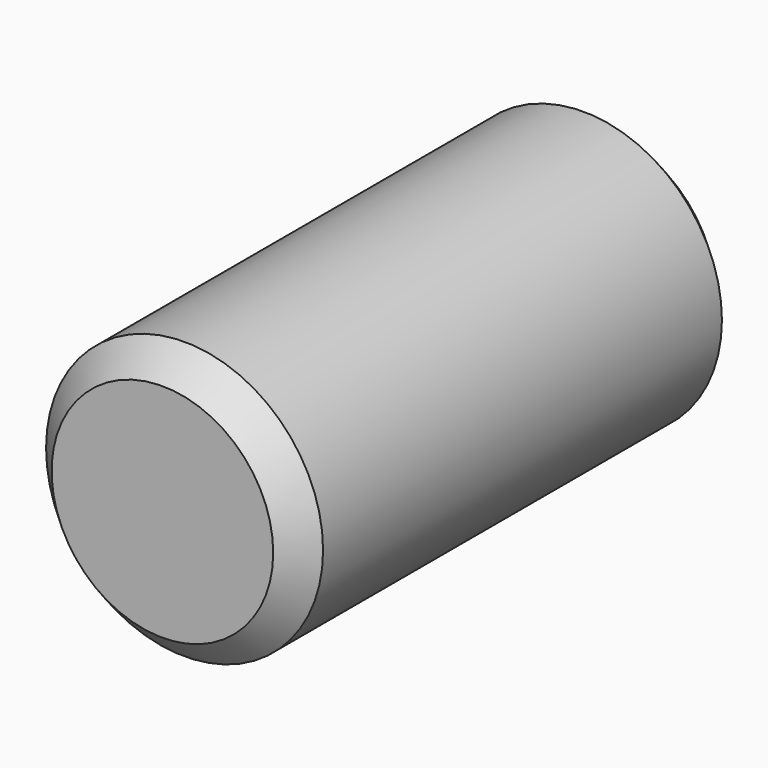
from build123d import *

# Parameters (mm, degrees)
F0_R     = 5
F1_DEPTH = 20
F2_SIZE  = 1
F3_SIZE  = 1


with BuildPart() as f1:
    # F0 (on Front) → F1 (new body)
    with BuildSketch(Plane.XZ):
        Circle(F0_R)
    extrude(amount=F1_DEPTH)

    # F2
    f2_edges = [f1.edges().sort_by_distance(p)[0] for p in [
        (-5, 0, 0),
    ]]
    chamfer(f2_edges, length=F2_SIZE)

    # F3
    f3_edges = [f1.edges().sort_by_distance(p)[0] for p in [
        (-5, -20, 0),
    ]]
    chamfer(f3_edges, length=F3_SIZE)


solid = f1.part
